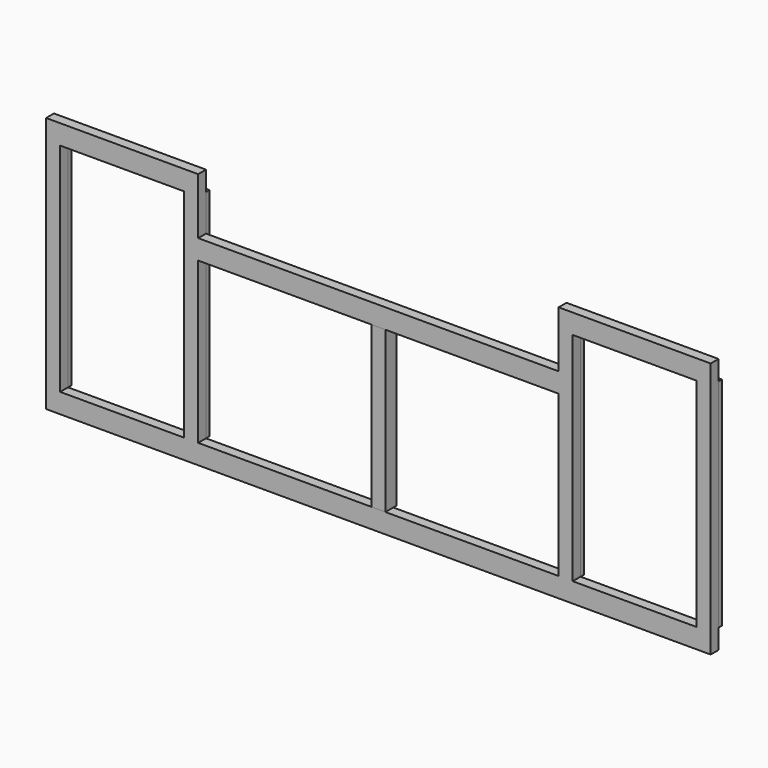
from build123d import *

# Parameters (mm, degrees)
F0_W     = 50
F0_H     = 570
F0_H_2   = 770
F1_DEPTH = 50
F2_DEPTH = 35


with BuildPart() as f1:
    # F0 (on Front) → F1 (new body)
    with BuildSketch(Plane.XZ):
        with Locations((99.359326, -285)):
            Rectangle(F0_W, F0_H)
        Polygon((739.359326, 200), (739.359326, 70), (739.359326, 0), (739.359326, -570), (789.359326, -570), (789.359326, 200), align=None)
        with Locations((1254.359326, -185)):
            Rectangle(F0_W, F0_H_2)
        Polygon((-540.640674, 0), (-540.640674, 70), (-540.640674, 200), (-590.640674, 200), (-590.640674, -570), (-540.640674, -570), align=None)
        with Locations((-1055.640674, -185)):
            Rectangle(F0_W, F0_H_2)
    extrude(amount=-F1_DEPTH)


with BuildPart() as f2:
    # F0 (on Front) → F2 (new body)
    with BuildSketch(Plane.XZ):
        Polygon((739.359326, 70), (-540.640674, 70), (-540.640674, 0), (74.359326, 0), (124.359326, 0), (739.359326, 0), align=None)
        Polygon((-540.640674, 0), (-540.640674, 70), (-540.640674, 200), (-590.640674, 200), (-590.640674, -570), (-540.640674, -570), align=None)
        Polygon((739.359326, 200), (739.359326, 70), (739.359326, 0), (739.359326, -570), (789.359326, -570), (789.359326, 200), align=None)
        Polygon((-590.640674, 200), (-540.640674, 200), (-540.640674, 270), (-1080.640674, 270), (-1080.640674, 200), (-1030.640674, 200), align=None)
        Polygon((739.359326, 270), (739.359326, 200), (789.359326, 200), (1229.359326, 200), (1279.359326, 200), (1279.359326, 270), align=None)
        Polygon((74.359326, -570), (-540.640674, -570), (-590.640674, -570), (-1030.640674, -570), (-1080.640674, -570), (-1080.640674, -640), (1279.359326, -640), (1279.359326, -570), (1229.359326, -570), (789.359326, -570), (739.359326, -570), (124.359326, -570), align=None)
        with Locations((-1055.640674, -185)):
            Rectangle(F0_W, F0_H_2)
        with Locations((1254.359326, -185)):
            Rectangle(F0_W, F0_H_2)
    extrude(amount=-F2_DEPTH)


solid = Compound([f1.part, f2.part])
